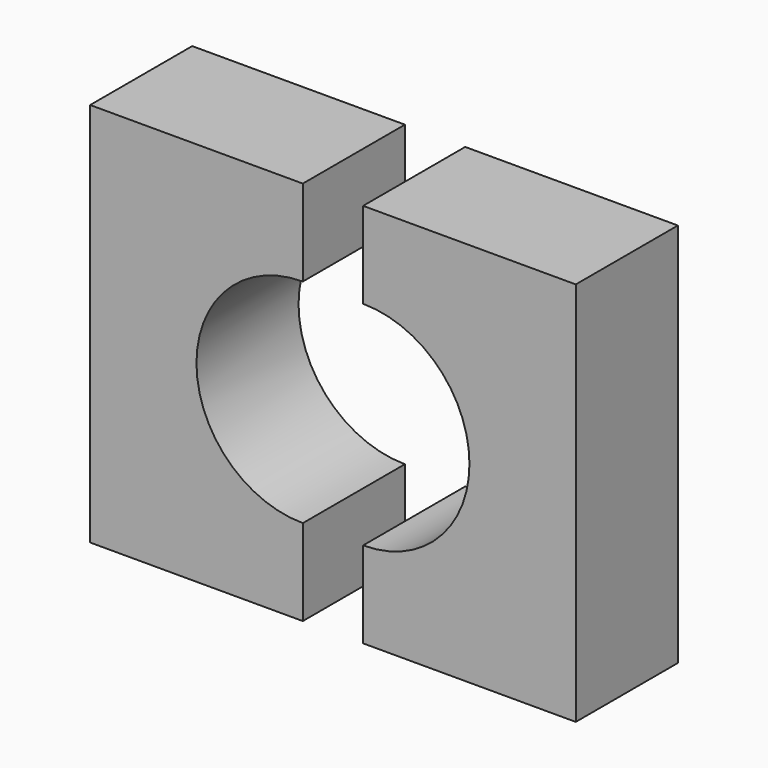
from build123d import *

# Parameters (mm, degrees)
F0_W     = 63.5
F0_H     = 115
F1_DEPTH = 38.1
F3_DEPTH = 76.2
F4_R     = 31.75
F5_DEPTH = 76.2


with BuildPart() as f1:
    # F0 (on Front) → F1 (new body)
    with BuildSketch(Plane.XZ):
        with Locations((31.75, 57.5)):
            Rectangle(F0_W, F0_H)
    extrude(amount=F1_DEPTH)

    # F2 (on face) → F3 (cut)
    with BuildSketch(Plane.XZ.offset(38.1)):
        with BuildLine():
            Line((63.5, 25.75), (63.5, 89.25))
            ThreePointArc((63.5, 89.25), (31.75, 57.5), (63.5, 25.75))
        make_face()
    extrude(amount=-F3_DEPTH, mode=Mode.SUBTRACT)


with BuildPart() as f1b:
    # F0 (on Front) → F1, piece 2 (new body)
    with BuildSketch(Plane.XZ):
        with Locations((113.25, 57.5)):
            Rectangle(F0_W, F0_H)
    extrude(amount=F1_DEPTH)

    # F4 (on face) → F5 (cut)
    with BuildSketch(Plane.XZ.offset(38.1)):
        with Locations((81.5, 57.5)):
            Circle(F4_R)
    extrude(amount=-F5_DEPTH, mode=Mode.SUBTRACT)


solid = Compound([f1.part, f1b.part])
